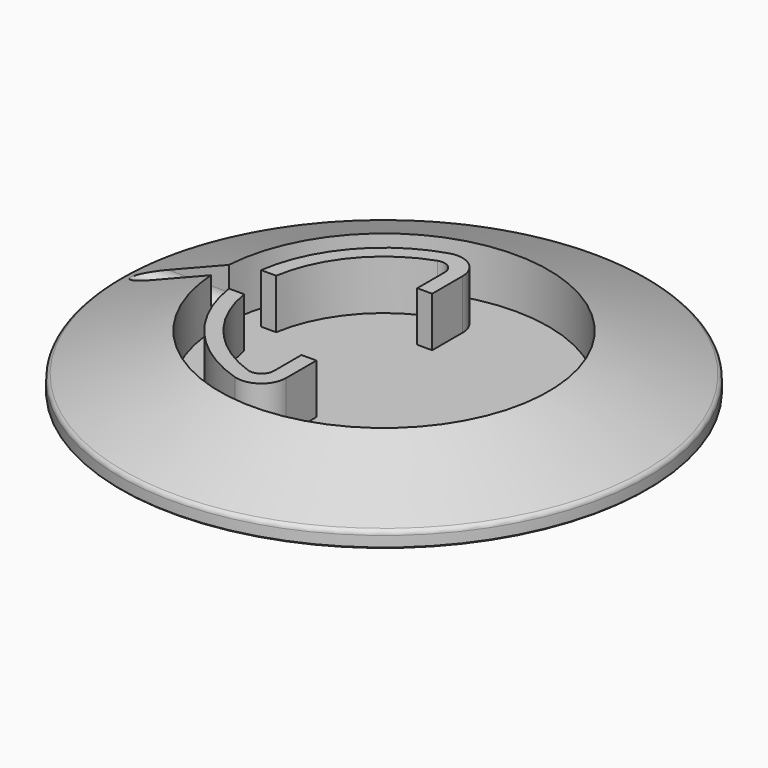
from build123d import *

# Parameters (mm, degrees)
F2_R     = 1.27
F4_DEPTH = 12.7
F6_DEPTH = 127
F7_SIZE  = 0.254


with BuildPart() as f1:
    # F0 (on Front) → F1 (revolve)
    with BuildSketch(Plane.XZ):
        Polygon((-67.31, 0), (0, 0), (0, 1.2), (-41.9735, 1.2), (-41.9735, 13.9), (-67.31, 3.81), align=None)
    revolve(axis=Axis((0, 0, 6.192707), (0, 0, -1)))

    # F2
    f2_edges = [f1.edges().sort_by_distance(p)[0] for p in [
        (67.31, 0, 3.81),
    ]]
    fillet(f2_edges, radius=F2_R)

    # F3 (on face) → F4 (join)
    with BuildSketch(Plane.XY.offset(1.2)):
        with BuildLine():
            ThreePointArc((-2.4765, 28.110855), (-5.068633, 33.22954), (-10.728763, 34.169229))
            ThreePointArc((-10.728763, 34.169229), (-27.279607, 23.204862), (-35.447604, 5.10979))
            Line((-35.447604, 5.10979), (-31.59345, 5.10979))
            ThreePointArc((-31.59345, 5.10979), (-24.511453, 20.577772), (-10.503515, 30.231311))
            ThreePointArc((-10.503515, 30.231311), (-7.621361, 29.819549), (-6.2865, 27.232173))
            Line((-6.2865, 27.232173), (-6.2865, 18.455401))
            Line((-6.2865, 18.455401), (-2.4765, 18.455401))
            Line((-2.4765, 18.455401), (-2.4765, 28.110855))
        make_face()
        with BuildLine():
            ThreePointArc((-35.447604, -5.10979), (-27.279607, -23.204862), (-10.728763, -34.169229))
            ThreePointArc((-10.728763, -34.169229), (-5.068633, -33.22954), (-2.4765, -28.110855))
            Line((-2.4765, -28.110855), (-2.4765, -18.455401))
            Line((-2.4765, -18.455401), (-6.2865, -18.455401))
            Line((-6.2865, -18.455401), (-6.2865, -27.232173))
            ThreePointArc((-6.2865, -27.232173), (-7.621361, -29.819549), (-10.503515, -30.231311))
            ThreePointArc((-10.503515, -30.231311), (-24.511453, -20.577772), (-31.59345, -5.10979))
            Line((-31.59345, -5.10979), (-35.447604, -5.10979))
        make_face()
    extrude(amount=F4_DEPTH)

    # F5 (on Right) → F6 (cut)
    with BuildSketch(Plane.YZ):
        with BuildLine():
            Line((2.8575, 13.9), (-2.8575, 13.9))
            Line((-2.8575, 13.9), (-2.8575, 7.7405))
            ThreePointArc((-2.8575, 7.7405), (0, 4.883), (2.8575, 7.7405))
            Line((2.8575, 7.7405), (2.8575, 13.9))
        make_face()
    extrude(amount=-F6_DEPTH, mode=Mode.SUBTRACT)

    # F7
    f7_edges = [f1.edges().sort_by_distance(p)[0] for p in [
        (67.31, 0, 0),
    ]]
    chamfer(f7_edges, length=F7_SIZE)


solid = f1.part
